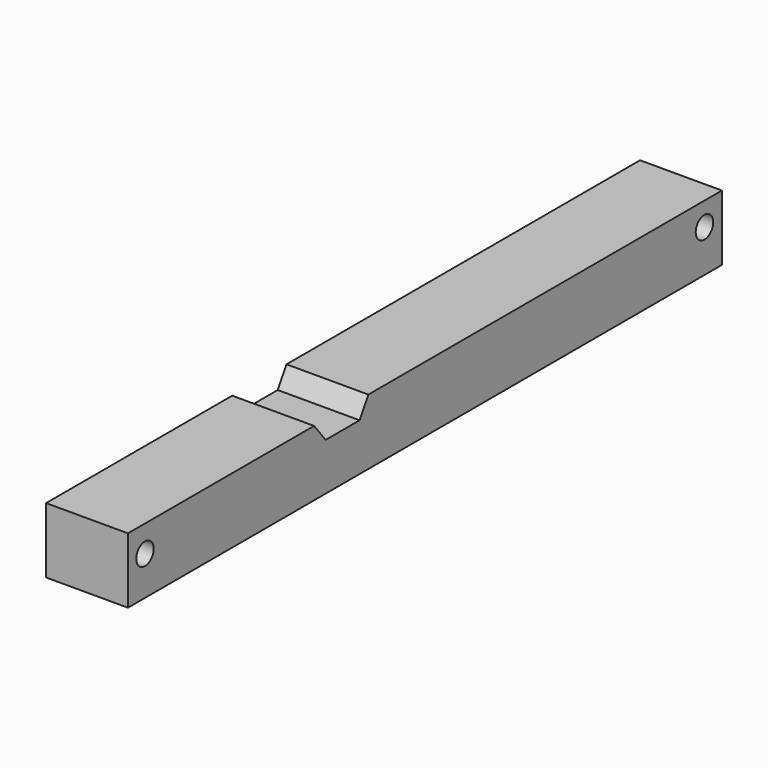
from build123d import *

# Parameters (mm, degrees)
F0_W     = 23.8125
F0_H     = 19.05
F1_DEPTH = 215.9
F3_DEPTH = 25.4
F5_D     = 6.35
F5_DEPTH = 50.8
F5_TIP   = 1.9077324654
F7_D     = 6.35
F7_DEPTH = 50.8
F7_TIP   = 1.9077324654


with BuildPart() as f1:
    # F0 (on Front) → F1 (new body)
    with BuildSketch(Plane.XZ):
        with Locations((11.90625, 9.525)):
            Rectangle(F0_W, F0_H)
    extrude(amount=F1_DEPTH)

    # F2 (on Right) → F3 (cut)
    with BuildSketch(Plane.YZ):
        Polygon((-125.693321228, 23.7295310944), (-152.0250290632, 23.7955264747), (-144.0397202969, 13.7644028291), (-131.6988021135, 13.7644028291), align=None)
        Polygon((-130.116969347, 34.1722927988), (-152.0250290632, 23.7955264747), (-125.693321228, 23.7295310944), align=None)
    extrude(amount=F3_DEPTH, mode=Mode.SUBTRACT)

    # F5
    with Locations(Plane(origin=(0, 0, 0), x_dir=(0, 1, 0), z_dir=(-1, 0, 0))):
        with Locations((-6.35, -12.2258998454)):
            Hole(F5_D / 2, depth=F5_DEPTH)
            with Locations((0, 0, -(F5_DEPTH + F5_TIP / 2))):  # 118° drill point
                Cone(0, F5_D / 2, F5_TIP, mode=Mode.SUBTRACT)

    # F7
    with Locations(Plane(origin=(0, 0, 0), x_dir=(0, 1, 0), z_dir=(-1, 0, 0))):
        with Locations((-209.7170012236, -11.3129783422)):
            Hole(F7_D / 2, depth=F7_DEPTH)
            with Locations((0, 0, -(F7_DEPTH + F7_TIP / 2))):  # 118° drill point
                Cone(0, F7_D / 2, F7_TIP, mode=Mode.SUBTRACT)


solid = f1.part
